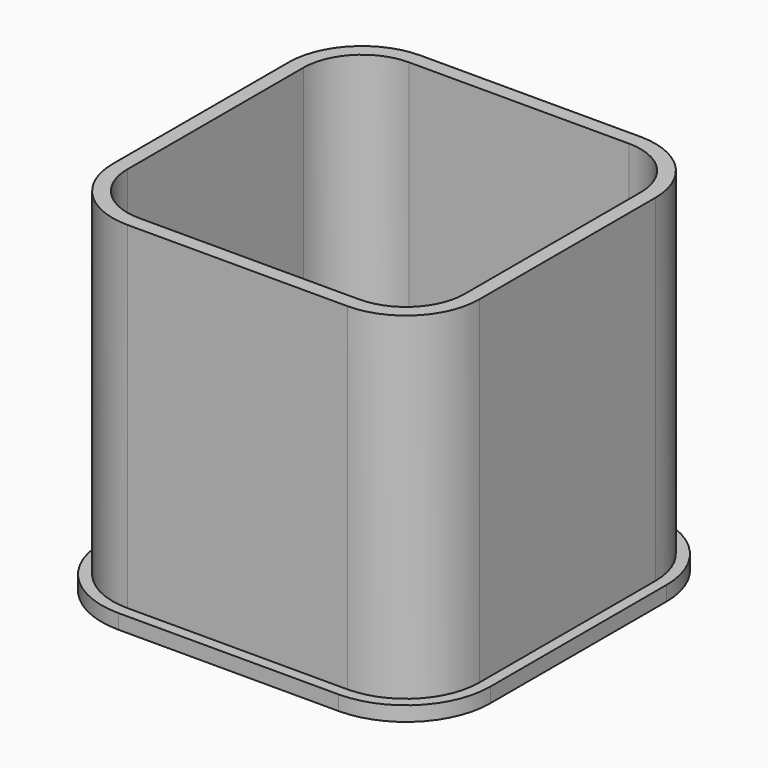
from build123d import *

# Parameters (mm, degrees)
F4_DEPTH = 1
F5_DEPTH = 24
F6_DEPTH = 1
F7_DEPTH = 5


with BuildPart() as f4:
    # F3 (on Top) → F4 (new body)
    with BuildSketch(Plane.XY):
        with BuildLine():
            Line((6.6464926861, 9.10439419), (-8.3535073139, 9.10439419))
            ThreePointArc((-8.3535073139, 9.10439419), (-11.8890412198, 7.6399280959), (-13.3535073139, 4.10439419))
            Line((-13.3535073139, 4.10439419), (-13.3535073139, -10.89560581))
            ThreePointArc((-13.3535073139, -10.89560581), (-11.8890412198, -14.4311397159), (-8.3535073139, -15.89560581))
            Line((-8.3535073139, -15.89560581), (6.6464926861, -15.89560581))
            ThreePointArc((6.6464926861, -15.89560581), (10.1820265921, -14.4311397159), (11.6464926861, -10.89560581))
            Line((11.6464926861, -10.89560581), (11.6464926861, 4.10439419))
            ThreePointArc((11.6464926861, 4.10439419), (10.1820265921, 7.6399280959), (6.6464926861, 9.10439419))
        make_face()
        with BuildLine():
            ThreePointArc((-12.3535073139, 4.10439419), (-11.1819344386, 6.9328213148), (-8.3535073139, 8.10439419))
            Line((-8.3535073139, 8.10439419), (6.6464926861, 8.10439419))
            ThreePointArc((6.6464926861, 8.10439419), (9.4749198109, 6.9328213148), (10.6464926861, 4.10439419))
            Line((10.6464926861, 4.10439419), (10.6464926861, -10.89560581))
            ThreePointArc((10.6464926861, -10.89560581), (9.4749198109, -13.7240329347), (6.6464926861, -14.89560581))
            Line((6.6464926861, -14.89560581), (-8.3535073139, -14.89560581))
            ThreePointArc((-8.3535073139, -14.89560581), (-11.1819344386, -13.7240329347), (-12.3535073139, -10.89560581))
            Line((-12.3535073139, -10.89560581), (-12.3535073139, 4.10439419))
        make_face(mode=Mode.SUBTRACT)
        with BuildLine():
            Line((6.6464926861, 8.10439419), (-8.3535073139, 8.10439419))
            ThreePointArc((-8.3535073139, 8.10439419), (-11.1819344386, 6.9328213148), (-12.3535073139, 4.10439419))
            Line((-12.3535073139, 4.10439419), (-12.3535073139, -10.89560581))
            ThreePointArc((-12.3535073139, -10.89560581), (-11.1819344386, -13.7240329347), (-8.3535073139, -14.89560581))
            Line((-8.3535073139, -14.89560581), (6.6464926861, -14.89560581))
            ThreePointArc((6.6464926861, -14.89560581), (9.4749198109, -13.7240329347), (10.6464926861, -10.89560581))
            Line((10.6464926861, -10.89560581), (10.6464926861, 4.10439419))
            ThreePointArc((10.6464926861, 4.10439419), (9.4749198109, 6.9328213148), (6.6464926861, 8.10439419))
        make_face()
        with BuildLine():
            ThreePointArc((-12.1535073139, 4.10439419), (-11.0405130824, 6.7913999585), (-8.3535073139, 7.90439419))
            Line((-8.3535073139, 7.90439419), (6.6464926861, 7.90439419))
            ThreePointArc((6.6464926861, 7.90439419), (9.3334984546, 6.7913999585), (10.4464926861, 4.10439419))
            Line((10.4464926861, 4.10439419), (10.4464926861, -10.89560581))
            ThreePointArc((10.4464926861, -10.89560581), (9.3334984546, -13.5826115785), (6.6464926861, -14.69560581))
            Line((6.6464926861, -14.69560581), (-8.3535073139, -14.69560581))
            ThreePointArc((-8.3535073139, -14.69560581), (-11.0405130824, -13.5826115785), (-12.1535073139, -10.89560581))
            Line((-12.1535073139, -10.89560581), (-12.1535073139, 4.10439419))
        make_face(mode=Mode.SUBTRACT)
        with BuildLine():
            Line((6.6464926861, 7.90439419), (-8.3535073139, 7.90439419))
            ThreePointArc((-8.3535073139, 7.90439419), (-11.0405130824, 6.7913999585), (-12.1535073139, 4.10439419))
            Line((-12.1535073139, 4.10439419), (-12.1535073139, -10.89560581))
            ThreePointArc((-12.1535073139, -10.89560581), (-11.0405130824, -13.5826115785), (-8.3535073139, -14.69560581))
            Line((-8.3535073139, -14.69560581), (6.6464926861, -14.69560581))
            ThreePointArc((6.6464926861, -14.69560581), (9.3334984546, -13.5826115785), (10.4464926861, -10.89560581))
            Line((10.4464926861, -10.89560581), (10.4464926861, 4.10439419))
            ThreePointArc((10.4464926861, 4.10439419), (9.3334984546, 6.7913999585), (6.6464926861, 7.90439419))
        make_face()
        with BuildLine():
            ThreePointArc((-11.1535073139, 4.10439419), (-10.3334063012, 6.0842931773), (-8.3535073139, 6.90439419))
            Line((-8.3535073139, 6.90439419), (6.6464926861, 6.90439419))
            ThreePointArc((6.6464926861, 6.90439419), (8.6263916734, 6.0842931773), (9.4464926861, 4.10439419))
            Line((9.4464926861, 4.10439419), (9.4464926861, -10.89560581))
            ThreePointArc((9.4464926861, -10.89560581), (8.6263916734, -12.8755047973), (6.6464926861, -13.69560581))
            Line((6.6464926861, -13.69560581), (-8.3535073139, -13.69560581))
            ThreePointArc((-8.3535073139, -13.69560581), (-10.3334063012, -12.8755047973), (-11.1535073139, -10.89560581))
            Line((-11.1535073139, -10.89560581), (-11.1535073139, 4.10439419))
        make_face(mode=Mode.SUBTRACT)
        with BuildLine():
            Line((6.6464926861, 6.90439419), (-8.3535073139, 6.90439419))
            ThreePointArc((-8.3535073139, 6.90439419), (-10.3334063012, 6.0842931773), (-11.1535073139, 4.10439419))
            Line((-11.1535073139, 4.10439419), (-11.1535073139, -10.89560581))
            ThreePointArc((-11.1535073139, -10.89560581), (-10.3334063012, -12.8755047973), (-8.3535073139, -13.69560581))
            Line((-8.3535073139, -13.69560581), (6.6464926861, -13.69560581))
            ThreePointArc((6.6464926861, -13.69560581), (8.6263916734, -12.8755047973), (9.4464926861, -10.89560581))
            Line((9.4464926861, -10.89560581), (9.4464926861, 4.10439419))
            ThreePointArc((9.4464926861, 4.10439419), (8.6263916734, 6.0842931773), (6.6464926861, 6.90439419))
        make_face()
    extrude(amount=F4_DEPTH)

    # F3 (on Top) → F5 (join)
    with BuildSketch(Plane.XY):
        with BuildLine():
            Line((6.6464926861, 9.10439419), (-8.3535073139, 9.10439419))
            ThreePointArc((-8.3535073139, 9.10439419), (-11.8890412198, 7.6399280959), (-13.3535073139, 4.10439419))
            Line((-13.3535073139, 4.10439419), (-13.3535073139, -10.89560581))
            ThreePointArc((-13.3535073139, -10.89560581), (-11.8890412198, -14.4311397159), (-8.3535073139, -15.89560581))
            Line((-8.3535073139, -15.89560581), (6.6464926861, -15.89560581))
            ThreePointArc((6.6464926861, -15.89560581), (10.1820265921, -14.4311397159), (11.6464926861, -10.89560581))
            Line((11.6464926861, -10.89560581), (11.6464926861, 4.10439419))
            ThreePointArc((11.6464926861, 4.10439419), (10.1820265921, 7.6399280959), (6.6464926861, 9.10439419))
        make_face()
        with BuildLine():
            ThreePointArc((-12.3535073139, 4.10439419), (-11.1819344386, 6.9328213148), (-8.3535073139, 8.10439419))
            Line((-8.3535073139, 8.10439419), (6.6464926861, 8.10439419))
            ThreePointArc((6.6464926861, 8.10439419), (9.4749198109, 6.9328213148), (10.6464926861, 4.10439419))
            Line((10.6464926861, 4.10439419), (10.6464926861, -10.89560581))
            ThreePointArc((10.6464926861, -10.89560581), (9.4749198109, -13.7240329347), (6.6464926861, -14.89560581))
            Line((6.6464926861, -14.89560581), (-8.3535073139, -14.89560581))
            ThreePointArc((-8.3535073139, -14.89560581), (-11.1819344386, -13.7240329347), (-12.3535073139, -10.89560581))
            Line((-12.3535073139, -10.89560581), (-12.3535073139, 4.10439419))
        make_face(mode=Mode.SUBTRACT)
    extrude(amount=F5_DEPTH)


with BuildPart() as f6:
    # F3 (on Top) → F6 (new body)
    with BuildSketch(Plane.XY):
        with BuildLine():
            Line((6.6464926861, 9.85439419), (-8.3535073139, 9.85439419))
            ThreePointArc((-8.3535073139, 9.85439419), (-12.4193713057, 8.1702581818), (-14.1035073139, 4.10439419))
            Line((-14.1035073139, 4.10439419), (-14.1035073139, -10.89560581))
            ThreePointArc((-14.1035073139, -10.89560581), (-12.4193713057, -14.9614698018), (-8.3535073139, -16.64560581))
            Line((-8.3535073139, -16.64560581), (6.6464926861, -16.64560581))
            ThreePointArc((6.6464926861, -16.64560581), (10.7123566779, -14.9614698018), (12.3964926861, -10.89560581))
            Line((12.3964926861, -10.89560581), (12.3964926861, 4.10439419))
            ThreePointArc((12.3964926861, 4.10439419), (10.7123566779, 8.1702581818), (6.6464926861, 9.85439419))
        make_face()
        with BuildLine():
            ThreePointArc((-13.3535073139, 4.10439419), (-11.8890412198, 7.6399280959), (-8.3535073139, 9.10439419))
            Line((-8.3535073139, 9.10439419), (6.6464926861, 9.10439419))
            ThreePointArc((6.6464926861, 9.10439419), (10.1820265921, 7.6399280959), (11.6464926861, 4.10439419))
            Line((11.6464926861, 4.10439419), (11.6464926861, -10.89560581))
            ThreePointArc((11.6464926861, -10.89560581), (10.1820265921, -14.4311397159), (6.6464926861, -15.89560581))
            Line((6.6464926861, -15.89560581), (-8.3535073139, -15.89560581))
            ThreePointArc((-8.3535073139, -15.89560581), (-11.8890412198, -14.4311397159), (-13.3535073139, -10.89560581))
            Line((-13.3535073139, -10.89560581), (-13.3535073139, 4.10439419))
        make_face(mode=Mode.SUBTRACT)
        with BuildLine():
            Line((6.6464926861, 9.10439419), (-8.3535073139, 9.10439419))
            ThreePointArc((-8.3535073139, 9.10439419), (-11.8890412198, 7.6399280959), (-13.3535073139, 4.10439419))
            Line((-13.3535073139, 4.10439419), (-13.3535073139, -10.89560581))
            ThreePointArc((-13.3535073139, -10.89560581), (-11.8890412198, -14.4311397159), (-8.3535073139, -15.89560581))
            Line((-8.3535073139, -15.89560581), (6.6464926861, -15.89560581))
            ThreePointArc((6.6464926861, -15.89560581), (10.1820265921, -14.4311397159), (11.6464926861, -10.89560581))
            Line((11.6464926861, -10.89560581), (11.6464926861, 4.10439419))
            ThreePointArc((11.6464926861, 4.10439419), (10.1820265921, 7.6399280959), (6.6464926861, 9.10439419))
        make_face()
        with BuildLine():
            ThreePointArc((-12.3535073139, 4.10439419), (-11.1819344386, 6.9328213148), (-8.3535073139, 8.10439419))
            Line((-8.3535073139, 8.10439419), (6.6464926861, 8.10439419))
            ThreePointArc((6.6464926861, 8.10439419), (9.4749198109, 6.9328213148), (10.6464926861, 4.10439419))
            Line((10.6464926861, 4.10439419), (10.6464926861, -10.89560581))
            ThreePointArc((10.6464926861, -10.89560581), (9.4749198109, -13.7240329347), (6.6464926861, -14.89560581))
            Line((6.6464926861, -14.89560581), (-8.3535073139, -14.89560581))
            ThreePointArc((-8.3535073139, -14.89560581), (-11.1819344386, -13.7240329347), (-12.3535073139, -10.89560581))
            Line((-12.3535073139, -10.89560581), (-12.3535073139, 4.10439419))
        make_face(mode=Mode.SUBTRACT)
        with BuildLine():
            Line((6.6464926861, 8.10439419), (-8.3535073139, 8.10439419))
            ThreePointArc((-8.3535073139, 8.10439419), (-11.1819344386, 6.9328213148), (-12.3535073139, 4.10439419))
            Line((-12.3535073139, 4.10439419), (-12.3535073139, -10.89560581))
            ThreePointArc((-12.3535073139, -10.89560581), (-11.1819344386, -13.7240329347), (-8.3535073139, -14.89560581))
            Line((-8.3535073139, -14.89560581), (6.6464926861, -14.89560581))
            ThreePointArc((6.6464926861, -14.89560581), (9.4749198109, -13.7240329347), (10.6464926861, -10.89560581))
            Line((10.6464926861, -10.89560581), (10.6464926861, 4.10439419))
            ThreePointArc((10.6464926861, 4.10439419), (9.4749198109, 6.9328213148), (6.6464926861, 8.10439419))
        make_face()
        with BuildLine():
            ThreePointArc((-12.1535073139, 4.10439419), (-11.0405130824, 6.7913999585), (-8.3535073139, 7.90439419))
            Line((-8.3535073139, 7.90439419), (6.6464926861, 7.90439419))
            ThreePointArc((6.6464926861, 7.90439419), (9.3334984546, 6.7913999585), (10.4464926861, 4.10439419))
            Line((10.4464926861, 4.10439419), (10.4464926861, -10.89560581))
            ThreePointArc((10.4464926861, -10.89560581), (9.3334984546, -13.5826115785), (6.6464926861, -14.69560581))
            Line((6.6464926861, -14.69560581), (-8.3535073139, -14.69560581))
            ThreePointArc((-8.3535073139, -14.69560581), (-11.0405130824, -13.5826115785), (-12.1535073139, -10.89560581))
            Line((-12.1535073139, -10.89560581), (-12.1535073139, 4.10439419))
        make_face(mode=Mode.SUBTRACT)
        with BuildLine():
            Line((6.6464926861, 7.90439419), (-8.3535073139, 7.90439419))
            ThreePointArc((-8.3535073139, 7.90439419), (-11.0405130824, 6.7913999585), (-12.1535073139, 4.10439419))
            Line((-12.1535073139, 4.10439419), (-12.1535073139, -10.89560581))
            ThreePointArc((-12.1535073139, -10.89560581), (-11.0405130824, -13.5826115785), (-8.3535073139, -14.69560581))
            Line((-8.3535073139, -14.69560581), (6.6464926861, -14.69560581))
            ThreePointArc((6.6464926861, -14.69560581), (9.3334984546, -13.5826115785), (10.4464926861, -10.89560581))
            Line((10.4464926861, -10.89560581), (10.4464926861, 4.10439419))
            ThreePointArc((10.4464926861, 4.10439419), (9.3334984546, 6.7913999585), (6.6464926861, 7.90439419))
        make_face()
        with BuildLine():
            ThreePointArc((-11.1535073139, 4.10439419), (-10.3334063012, 6.0842931773), (-8.3535073139, 6.90439419))
            Line((-8.3535073139, 6.90439419), (6.6464926861, 6.90439419))
            ThreePointArc((6.6464926861, 6.90439419), (8.6263916734, 6.0842931773), (9.4464926861, 4.10439419))
            Line((9.4464926861, 4.10439419), (9.4464926861, -10.89560581))
            ThreePointArc((9.4464926861, -10.89560581), (8.6263916734, -12.8755047973), (6.6464926861, -13.69560581))
            Line((6.6464926861, -13.69560581), (-8.3535073139, -13.69560581))
            ThreePointArc((-8.3535073139, -13.69560581), (-10.3334063012, -12.8755047973), (-11.1535073139, -10.89560581))
            Line((-11.1535073139, -10.89560581), (-11.1535073139, 4.10439419))
        make_face(mode=Mode.SUBTRACT)
        with BuildLine():
            Line((6.6464926861, 6.90439419), (-8.3535073139, 6.90439419))
            ThreePointArc((-8.3535073139, 6.90439419), (-10.3334063012, 6.0842931773), (-11.1535073139, 4.10439419))
            Line((-11.1535073139, 4.10439419), (-11.1535073139, -10.89560581))
            ThreePointArc((-11.1535073139, -10.89560581), (-10.3334063012, -12.8755047973), (-8.3535073139, -13.69560581))
            Line((-8.3535073139, -13.69560581), (6.6464926861, -13.69560581))
            ThreePointArc((6.6464926861, -13.69560581), (8.6263916734, -12.8755047973), (9.4464926861, -10.89560581))
            Line((9.4464926861, -10.89560581), (9.4464926861, 4.10439419))
            ThreePointArc((9.4464926861, 4.10439419), (8.6263916734, 6.0842931773), (6.6464926861, 6.90439419))
        make_face()
    extrude(amount=F6_DEPTH)

    # F3 (on Top) → F7 (join)
    with BuildSketch(Plane.XY):
        with BuildLine():
            Line((6.6464926861, 7.90439419), (-8.3535073139, 7.90439419))
            ThreePointArc((-8.3535073139, 7.90439419), (-11.0405130824, 6.7913999585), (-12.1535073139, 4.10439419))
            Line((-12.1535073139, 4.10439419), (-12.1535073139, -10.89560581))
            ThreePointArc((-12.1535073139, -10.89560581), (-11.0405130824, -13.5826115785), (-8.3535073139, -14.69560581))
            Line((-8.3535073139, -14.69560581), (6.6464926861, -14.69560581))
            ThreePointArc((6.6464926861, -14.69560581), (9.3334984546, -13.5826115785), (10.4464926861, -10.89560581))
            Line((10.4464926861, -10.89560581), (10.4464926861, 4.10439419))
            ThreePointArc((10.4464926861, 4.10439419), (9.3334984546, 6.7913999585), (6.6464926861, 7.90439419))
        make_face()
        with BuildLine():
            ThreePointArc((-11.1535073139, 4.10439419), (-10.3334063012, 6.0842931773), (-8.3535073139, 6.90439419))
            Line((-8.3535073139, 6.90439419), (6.6464926861, 6.90439419))
            ThreePointArc((6.6464926861, 6.90439419), (8.6263916734, 6.0842931773), (9.4464926861, 4.10439419))
            Line((9.4464926861, 4.10439419), (9.4464926861, -10.89560581))
            ThreePointArc((9.4464926861, -10.89560581), (8.6263916734, -12.8755047973), (6.6464926861, -13.69560581))
            Line((6.6464926861, -13.69560581), (-8.3535073139, -13.69560581))
            ThreePointArc((-8.3535073139, -13.69560581), (-10.3334063012, -12.8755047973), (-11.1535073139, -10.89560581))
            Line((-11.1535073139, -10.89560581), (-11.1535073139, 4.10439419))
        make_face(mode=Mode.SUBTRACT)
    extrude(amount=F7_DEPTH)


solid = Compound([f4.part, f6.part])
